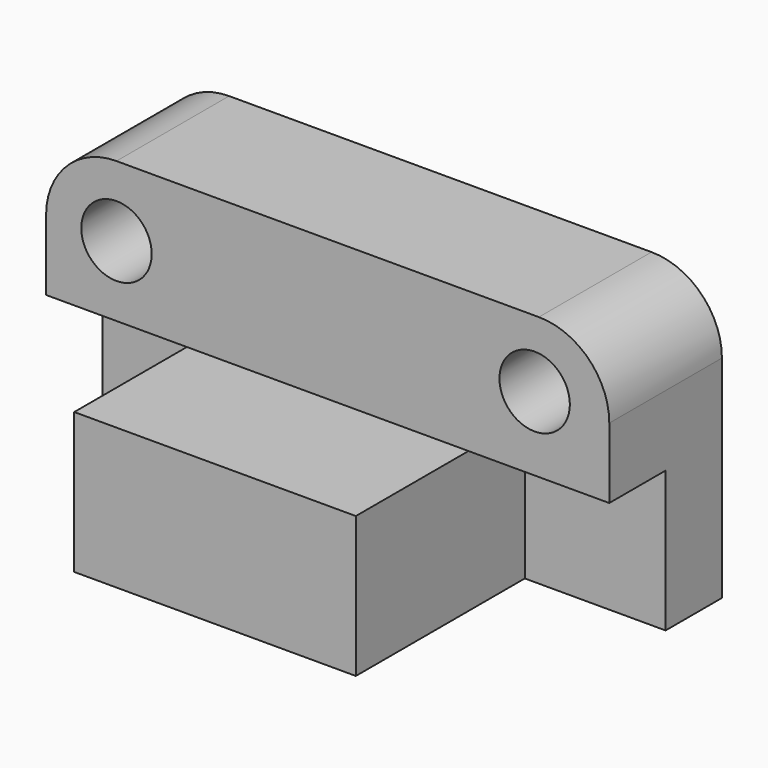
from build123d import *

# Parameters (mm, degrees)
F0_W      = 203.2
F0_H      = 101.6
F1_DEPTH  = 101.6
F2_W      = 50.8
F2_H      = 50.8
F3_DEPTH  = 127
F4_W      = 50.8
F4_H      = 50.8
F5_DEPTH  = 76.2
F6_W      = 50.8
F6_H      = 50.8
F7_DEPTH  = 76.2
F8_R      = 25.4
F9_R      = 25.4
F11_R     = 12.7
F12_DEPTH = 101.601
F10_R     = 12.7
F13_DEPTH = 101.601


with BuildPart() as f1:
    # F0 (on Front) → F1 (new body)
    with BuildSketch(Plane.XZ):
        with Locations((-6.5831001848, -26.6614348247)):
            Rectangle(F0_W, F0_H)
    extrude(amount=-F1_DEPTH)

    # F2 (on Right) → F3 (cut, symmetric)
    with BuildSketch(Plane.YZ):
        with Locations((25.4, -1.2614348247)):
            Rectangle(F2_W, F2_H)
    extrude(amount=F3_DEPTH, both=True, mode=Mode.SUBTRACT)

    # F4 (on Front) → F5 (cut)
    with BuildSketch(Plane.XZ):
        with Locations((-82.7831001848, -52.0614348247)):
            Rectangle(F4_W, F4_H)
    extrude(amount=-F5_DEPTH, mode=Mode.SUBTRACT)

    # F6 (on Front) → F7 (cut)
    with BuildSketch(Plane.XZ):
        with Locations((69.6168998152, -52.0614348247)):
            Rectangle(F6_W, F6_H)
    extrude(amount=-F7_DEPTH, mode=Mode.SUBTRACT)

    # F8
    f8_edges = [f1.edges().sort_by_distance(p)[0] for p in [
        (95.0169, 76.2, 24.138565),
    ]]
    fillet(f8_edges, radius=F8_R)

    # F9
    f9_edges = [f1.edges().sort_by_distance(p)[0] for p in [
        (-108.1831, 76.2, 24.138565),
    ]]
    fillet(f9_edges, radius=F9_R)

    # F11 (on Front) → F12 (cut, through all)
    with BuildSketch(Plane.XZ):
        with Locations((68.0897906423, 0)):
            Circle(F11_R)
    extrude(amount=-F12_DEPTH, mode=Mode.SUBTRACT)

    # F10 (on Front) → F13 (cut, through all)
    with BuildSketch(Plane.XZ):
        with Locations((-82.7831001848, -1.2614348247)):
            Circle(F10_R)
    extrude(amount=-F13_DEPTH, mode=Mode.SUBTRACT)


solid = f1.part
